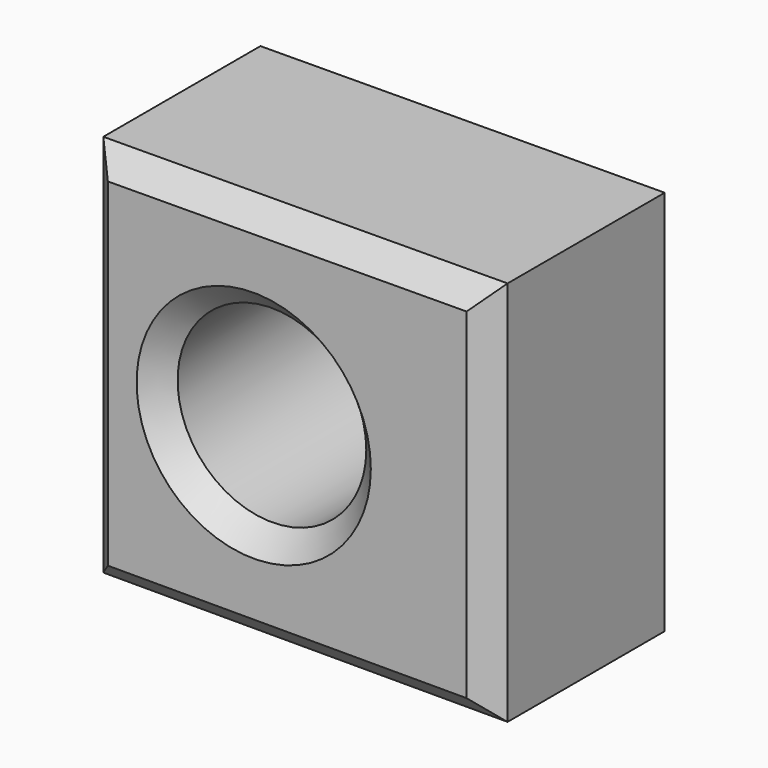
from build123d import *

# Parameters (mm, degrees)
F1_DEPTH = 26.9878935069
F2_R     = 10.5222192306
F3_DEPTH = 26.9888935069
F4_SIZE  = 2.54
F5_SIZE  = 2.54


with BuildPart() as f1:
    # F0 (on Front) → F1 (new body)
    with BuildSketch(Plane.XZ):
        Polygon((26.283480227, -21.57907933), (26.283480227, 21.4828625321), (-18.810749054, 21.2165787816), (-18.810749054, -21.57907933), align=None)
    extrude(amount=-F1_DEPTH)

    # F2 (on face) → F3 (cut, through all)
    with BuildSketch(Plane.XZ):
        Circle(F2_R)
    extrude(amount=-F3_DEPTH, mode=Mode.SUBTRACT)

    # F4
    f4_edges = [f1.edges().sort_by_distance(p)[0] for p in [
        (26.28348, 26.987894, -0.048108),
        (3.736366, 26.987894, -21.579079),
        (3.736366, 26.987894, 21.349721),
        (-18.810749, 26.987894, -0.18125),
        (-10.522219, 26.987894, 0),
    ]]
    chamfer(f4_edges, length=F4_SIZE)

    # F5
    f5_edges = [f1.edges().sort_by_distance(p)[0] for p in [
        (26.28348, 0, -0.048108),
        (3.736366, 0, -21.579079),
        (3.736366, 0, 21.349721),
        (-18.810749, 0, -0.18125),
        (-10.522219, 0, 0),
    ]]
    chamfer(f5_edges, length=F5_SIZE)


solid = f1.part
